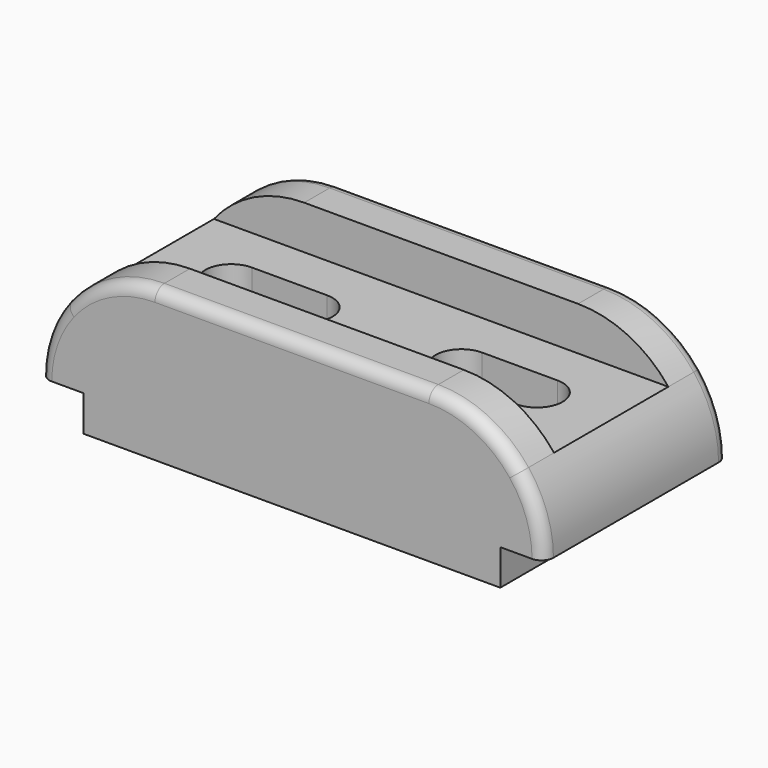
from build123d import *

# Parameters (mm, degrees)
F1_DEPTH = 29
F2_R     = 3
F3_DEPTH = 18
F5_DEPTH = 27.001


with BuildPart() as f1:
    # F0 (on Front) → F1 (new body, symmetric)
    with BuildSketch(Plane.XZ):
        with BuildLine():
            Line((0, 9), (0, 0))
            Line((0, 0), (105, 0))
            Line((105, 0), (105, 9))
            Line((105, 9), (116, 9))
            ThreePointArc((116, 9), (114.3897, 18.529129), (109.737634, 27))
            Line((109.737634, 27), (-4.737634, 27))
            ThreePointArc((-4.737634, 27), (-9.3897, 18.529129), (-11, 9))
            Line((-11, 9), (0, 9))
        make_face()
        with BuildLine():
            ThreePointArc((18, 38), (5.370669, 35.105555), (-4.737634, 27))
            Line((-4.737634, 27), (109.737634, 27))
            ThreePointArc((109.737634, 27), (99.629331, 35.105555), (87, 38))
            Line((87, 38), (18, 38))
        make_face()
    extrude(amount=F1_DEPTH, both=True)

    # F2
    f2_edges = [f1.edges().sort_by_distance(p)[0] for p in [
        (52.5, -29, 38),
        (52.5, 29, 38),
    ]]
    fillet(f2_edges, radius=F2_R)

    # F0 (on Front) → F3 (cut, symmetric)
    with BuildSketch(Plane.XZ):
        with BuildLine():
            ThreePointArc((18, 38), (5.370669, 35.105555), (-4.737634, 27))
            Line((-4.737634, 27), (109.737634, 27))
            ThreePointArc((109.737634, 27), (99.629331, 35.105555), (87, 38))
            Line((87, 38), (18, 38))
        make_face()
    extrude(amount=F3_DEPTH, both=True, mode=Mode.SUBTRACT)

    # F4 (on face) → F5 (cut, through all)
    with BuildSketch(Plane.XY.offset(27)):
        with BuildLine():
            ThreePointArc((39.5, 0), (37.596194, 4.596194), (33, 6.5))
            ThreePointArc((33, 6.5), (26.5, 0), (33, -6.5))
            ThreePointArc((33, -6.5), (37.596194, -4.596194), (39.5, 0))
        make_face()
        with BuildLine():
            Line((91, 6.5), (72, 6.5))
            ThreePointArc((72, 6.5), (65.5, 0), (72, -6.5))
            Line((72, -6.5), (91, -6.5))
            ThreePointArc((91, -6.5), (84.5, 0), (91, 6.5))
        make_face()
        with BuildLine():
            ThreePointArc((97.5, 0), (95.596194, 4.596194), (91, 6.5))
            ThreePointArc((91, 6.5), (84.5, 0), (91, -6.5))
            ThreePointArc((91, -6.5), (95.596194, -4.596194), (97.5, 0))
        make_face()
        with BuildLine():
            ThreePointArc((14, 6.5), (18.596194, 4.596194), (20.5, 0))
            ThreePointArc((20.5, 0), (18.596194, -4.596194), (14, -6.5))
            Line((14, -6.5), (33, -6.5))
            ThreePointArc((33, -6.5), (26.5, 0), (33, 6.5))
            Line((33, 6.5), (14, 6.5))
        make_face()
        with BuildLine():
            ThreePointArc((14, -6.5), (18.596194, -4.596194), (20.5, 0))
            ThreePointArc((20.5, 0), (18.596194, 4.596194), (14, 6.5))
            ThreePointArc((14, 6.5), (7.5, 0), (14, -6.5))
        make_face()
    extrude(amount=-F5_DEPTH, mode=Mode.SUBTRACT)


solid = f1.part
